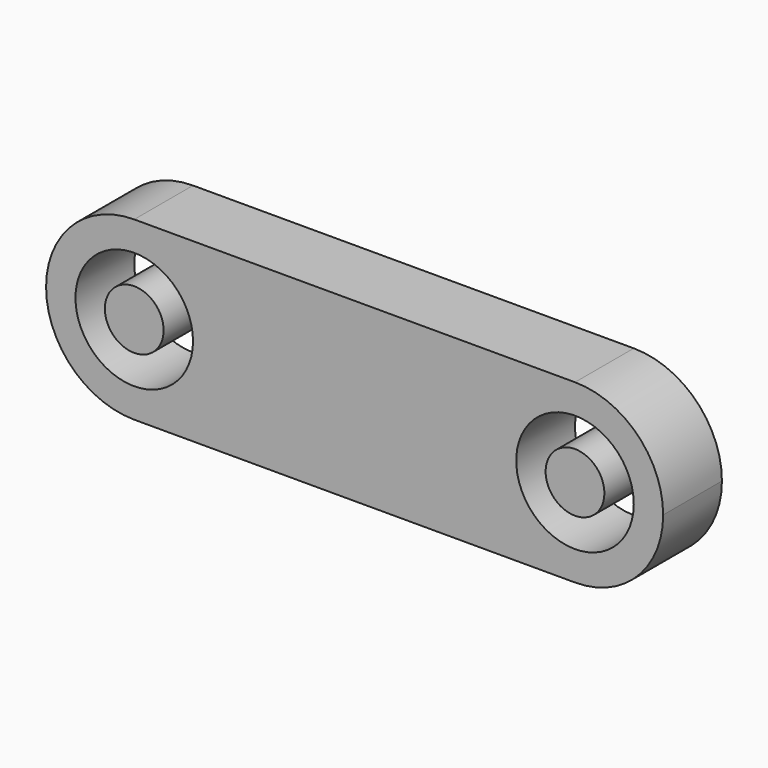
from build123d import *

# Parameters (mm, degrees)
F0_R     = 4
F1_DEPTH = 5
F0_R_2   = 2


with BuildPart() as f1:
    # F0 (on Front) → F1 (new body)
    with BuildSketch(Plane.XZ):
        with BuildLine():
            ThreePointArc((-15, 6), (-10.7573593129, 4.2426406871), (-9, 0))
            ThreePointArc((-9, 0), (-10.7573593129, -4.2426406871), (-15, -6))
            Line((-15, -6), (0, -6))
            Line((0, -6), (15, -6))
            ThreePointArc((15, -6), (9, 0), (15, 6))
            Line((15, 6), (0, 6))
            Line((0, 6), (-15, 6))
        make_face()
        with BuildLine():
            ThreePointArc((-15, -6), (-10.7573593129, -4.2426406871), (-9, 0))
            ThreePointArc((-9, 0), (-10.7573593129, 4.2426406871), (-15, 6))
            ThreePointArc((-15, 6), (-21, 0), (-15, -6))
        make_face()
        with Locations((-15, 0)):
            Circle(F0_R, mode=Mode.SUBTRACT)
        with BuildLine():
            ThreePointArc((21, 0), (19.2426406871, 4.2426406871), (15, 6))
            ThreePointArc((15, 6), (9, 0), (15, -6))
            ThreePointArc((15, -6), (19.2426406871, -4.2426406871), (21, 0))
        make_face()
        with Locations((15, 0)):
            Circle(F0_R, mode=Mode.SUBTRACT)
    extrude(amount=F1_DEPTH)


with BuildPart() as f1b:
    # F0 (on Front) → F1, piece 2 (new body)
    with BuildSketch(Plane.XZ):
        with Locations((-15, 0)):
            Circle(F0_R_2)
    extrude(amount=F1_DEPTH)


with BuildPart() as f1c:
    # F0 (on Front) → F1, piece 3 (new body)
    with BuildSketch(Plane.XZ):
        with Locations((15, 0)):
            Circle(F0_R_2)
    extrude(amount=F1_DEPTH)


solid = Compound([f1.part, f1b.part, f1c.part])
